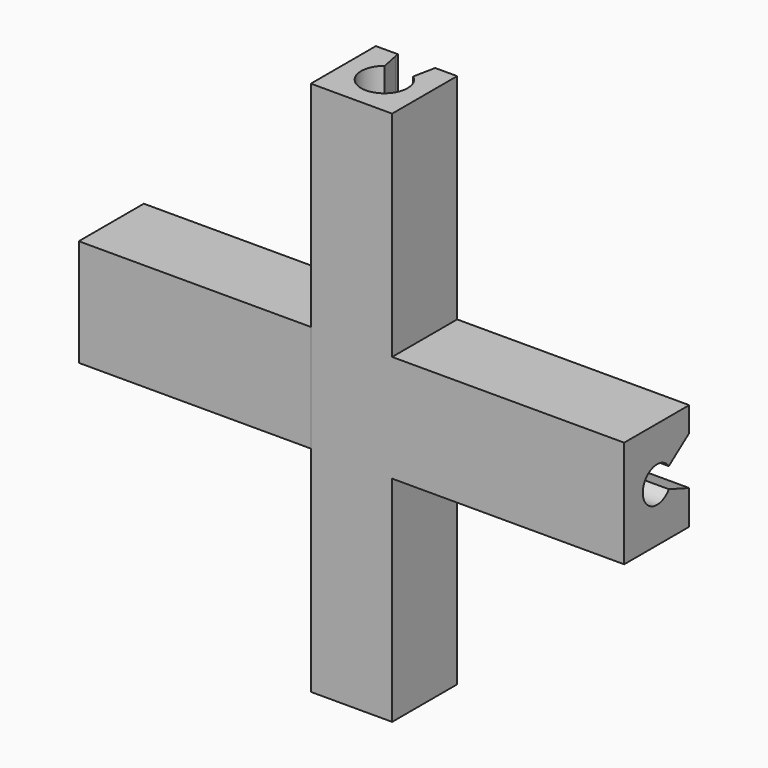
from build123d import *

# Parameters (mm, degrees)
F1_DEPTH = 30
F3_DEPTH = 13
F4_W     = 4.553619
F4_H     = 6
F4_R     = 1
F5_DEPTH = 13


with BuildPart() as f1:
    # F0 (on Top) → F1 (new body)
    with BuildSketch(Plane.XY):
        with BuildLine():
            ThreePointArc((0.8, 1.024695), (1.168332, 0.570088), (1.3, 0))
            ThreePointArc((1.3, 0), (-0.570088, -1.168332), (-0.8, 1.024695))
            Line((-0.8, 1.024695), (-1, 2.015564))
            ThreePointArc((-1, 2.015564), (-1.185854, -1.912132), (2.25, 0))
            ThreePointArc((2.25, 0), (1.912132, 1.185854), (1, 2.015564))
            Line((1, 2.015564), (0.8, 1.024695))
        make_face()
        with BuildLine():
            Line((1.047319, 2.25), (1, 2.015564))
            ThreePointArc((1, 2.015564), (1.912132, 1.185854), (2.25, 0))
            ThreePointArc((2.25, 0), (-1.185854, -1.912132), (-1, 2.015564))
            Line((-1, 2.015564), (-1.047319, 2.25))
            Line((-1.047319, 2.25), (-2.274133, 2.25))
            Line((-2.274133, 2.25), (-2.274133, -2.303619))
            Line((-2.274133, -2.303619), (2.279486, -2.303619))
            Line((2.279486, -2.303619), (2.279486, 2.25))
            Line((2.279486, 2.25), (1.047319, 2.25))
        make_face()
    extrude(amount=F1_DEPTH)

    # F2 (on face) → F3 (join)
    with BuildSketch(Plane.YZ.offset(2.279486)):
        with BuildLine():
            ThreePointArc((0.824123, 14.433589), (-0.999993, 14.996283), (0.819889, 15.572522))
            Line((0.819889, 15.572522), (2.25, 16.621344))
            Line((2.25, 16.621344), (2.25, 18))
            Line((2.25, 18), (-2.303619, 18))
            Line((-2.303619, 18), (-2.303619, 12))
            Line((-2.303619, 12), (2.25, 12))
            Line((2.25, 12), (2.25, 13.912768))
            Line((2.25, 13.912768), (0.824123, 14.433589))
        make_face()
    extrude(amount=F3_DEPTH)

    # F4 (on face) → F5 (join)
    with BuildSketch(Plane(origin=(-2.274133, 0, 0), x_dir=(0, -1, 0), z_dir=(-1, 0, 0))):
        with Locations((0.026809, 15)):
            Rectangle(F4_W, F4_H)
        with Locations((0, 15)):
            Circle(F4_R, mode=Mode.SUBTRACT)
    extrude(amount=F5_DEPTH)


solid = f1.part
